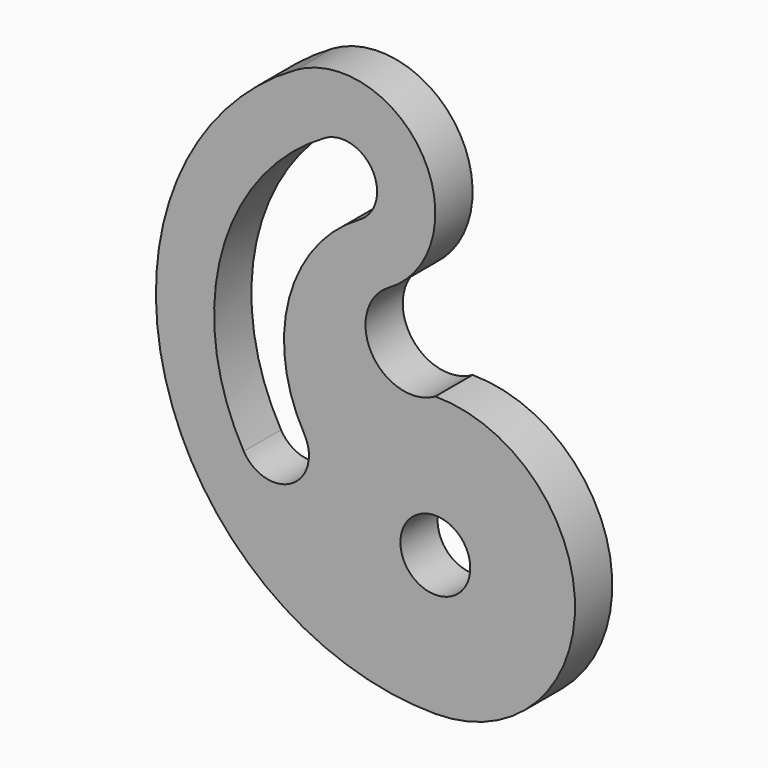
from build123d import *

# Parameters (mm, degrees)
F0_R     = 19.05
F1_DEPTH = 25.4


with BuildPart() as f1:
    # F0 (on Front) → F1 (new body)
    with BuildSketch(Plane.XZ):
        with BuildLine():
            ThreePointArc((-76.2, 208.182272), (-147.207096, 36.755978), (0, -76.2))
            ThreePointArc((0, -76.2), (76.2, 0), (0, 76.2))
            ThreePointArc((0, 76.2), (-34.697045, 85.497045), (-25.4, 120.194091))
            ThreePointArc((-25.4, 120.194091), (-6.805909, 189.588181), (-76.2, 208.182272))
        make_face()
        Circle(F0_R, mode=Mode.SUBTRACT)
        with BuildLine():
            ThreePointArc((-60.325, 180.685965), (-41.275, 180.685965), (-31.75, 164.188181))
            ThreePointArc((-31.75, 164.188181), (-34.302216, 154.663181), (-41.275, 147.690397))
            ThreePointArc((-41.275, 147.690397), (-79.737177, 97.565512), (-71.490397, 34.925))
            ThreePointArc((-71.490397, 34.925), (-69.587294, 30.330503), (-68.938181, 25.4))
            ThreePointArc((-68.938181, 25.4), (-83.057678, 6.999113), (-104.485965, 15.875))
            ThreePointArc((-104.485965, 15.875), (-116.538951, 107.426518), (-60.325, 180.685965))
        make_face(mode=Mode.SUBTRACT)
    extrude(amount=F1_DEPTH)


solid = f1.part
